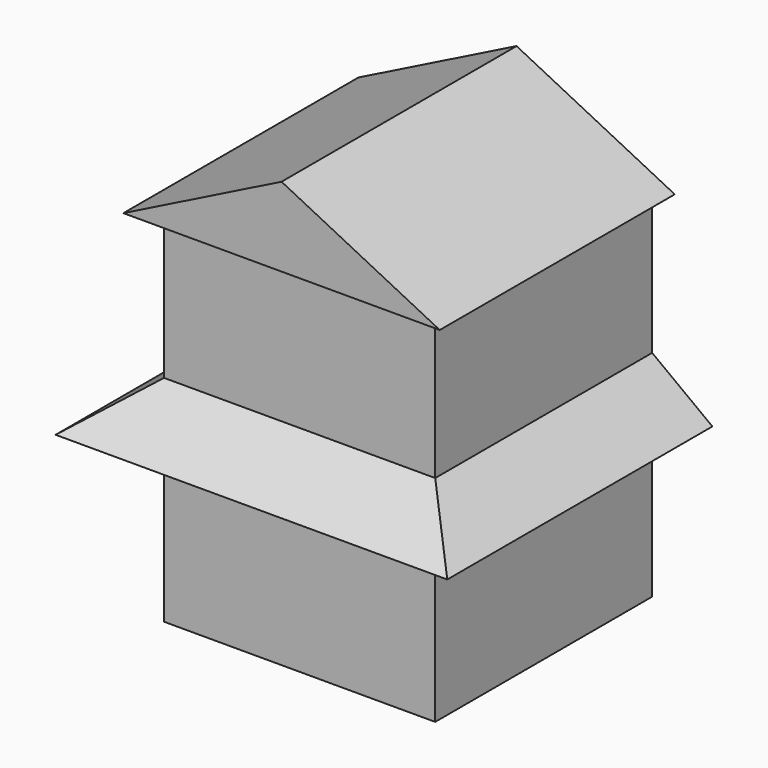
from build123d import *

# Parameters (mm, degrees)
F0_W          = 3657.6
F0_H          = 3657.6
F1_DEPTH      = 4876.8
F3_DEPTH      = 304.8
F3_DEPTH_BACK = 3657.6
F5_DEPTH      = 3657.6
F5_DEPTH_BACK = 1092.2
F7_DEPTH      = 871.22
F7_DEPTH_BACK = 4513.58
F9_DEPTH      = 5384.801
F11_DEPTH     = 4470.401


with BuildPart() as f1:
    # F0 (on Top) → F1 (new body)
    with BuildSketch(Plane.XY):
        Rectangle(F0_W, F0_H)
    extrude(amount=F1_DEPTH)

    # F2 (on face) → F3 (join, two sides)
    with BuildSketch(Plane.XZ.offset(1828.8)) as f3_sk:
        Polygon((0, 5943.6), (-2133.6, 4876.8), (2133.6, 4876.8), align=None)
    extrude(amount=F3_DEPTH)
    extrude(f3_sk.sketch, amount=-F3_DEPTH_BACK)

    # F4 (on face) → F5 (join, two sides)
    with BuildSketch(Plane.XZ.offset(1828.8)) as f5_sk:
        Polygon((-1828.8, 2286), (-1828.8, 2895.6), (-2641.6, 2286), align=None)
        Polygon((2641.6, 2286), (1828.8, 2895.6), (1828.8, 2286), align=None)
    extrude(amount=-F5_DEPTH)
    extrude(f5_sk.sketch, amount=-F5_DEPTH_BACK)

    # F6 (on face) → F7 (join, two sides)
    with BuildSketch(Plane(origin=(-1828.8, 0, 0), x_dir=(0, -1, 0), z_dir=(-1, 0, 0))) as f7_sk:
        Polygon((1828.8, 2895.6), (1828.8, 2286), (2641.6, 2286), align=None)
    extrude(amount=F7_DEPTH)
    extrude(f7_sk.sketch, amount=-F7_DEPTH_BACK)

    # F8 (on face) → F9 (cut, through all)
    with BuildSketch(Plane(origin=(-2700.02, 0, 0), x_dir=(0, -1, 0), z_dir=(-1, 0, 0))):
        Polygon((3195.674896, 2895.6), (1828.8, 2895.6), (2641.6, 2286), (3195.674896, 2286), align=None)
    extrude(amount=-F9_DEPTH, mode=Mode.SUBTRACT)

    # F10 (on face) → F11 (cut, through all)
    with BuildSketch(Plane(origin=(0, 1828.8, 0), x_dir=(-1, 0, 0), z_dir=(0, 1, 0))):
        Polygon((-2641.6, 2286), (-1828.8, 2895.6), (-2902.575731, 2895.6), (-2902.575731, 2286), align=None)
        Polygon((2902.575731, 2286), (2902.575731, 2895.6), (1828.8, 2895.6), (2641.6, 2286), align=None)
    extrude(amount=-F11_DEPTH, mode=Mode.SUBTRACT)


solid = f1.part
